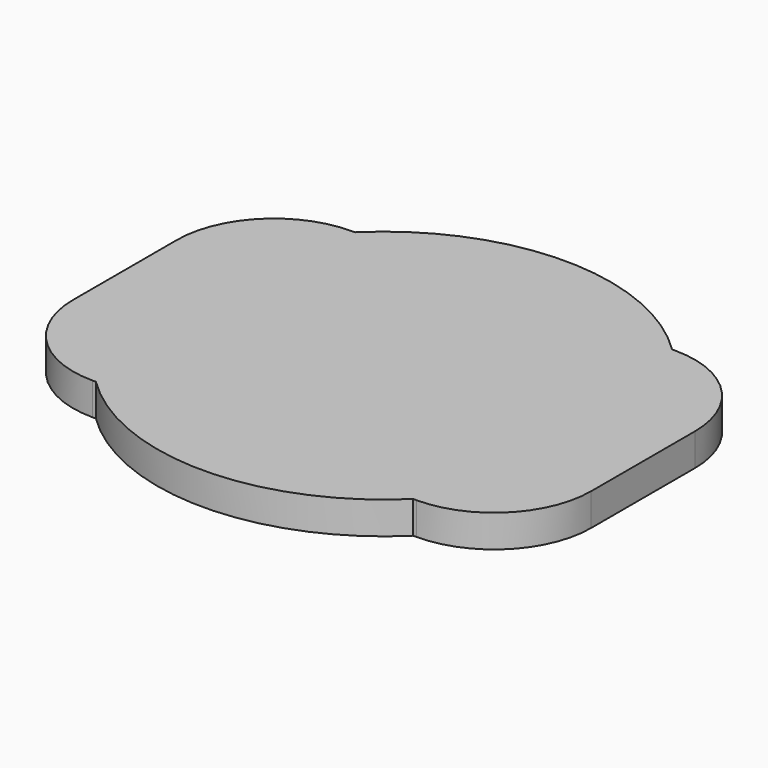
from build123d import *

# Parameters (mm, degrees)
F1_DEPTH = 0.5
F2_R     = 1.5


with BuildPart() as f1:
    # F0 (on Top) → F1 (new body)
    with BuildSketch(Plane.XY):
        with BuildLine():
            Line((-2.4494897428, 2.5), (2.4494897428, 2.5))
            ThreePointArc((2.4494897428, 2.5), (0, 3.5), (-2.4494897428, 2.5))
        make_face()
        with BuildLine():
            ThreePointArc((2.4494897428, -2.5), (3.2267021942, -1.3558735008), (3.5, 0))
            ThreePointArc((3.5, 0), (3.2267021942, 1.3558735008), (2.4494897428, 2.5))
            Line((2.4494897428, 2.5), (-2.4494897428, 2.5))
            ThreePointArc((-2.4494897428, 2.5), (-3.5, 0), (-2.4494897428, -2.5))
            Line((-2.4494897428, -2.5), (2.4494897428, -2.5))
        make_face()
        with BuildLine():
            ThreePointArc((2.4494897428, 2.5), (3.2267021942, 1.3558735008), (3.5, 0))
            ThreePointArc((3.5, 0), (3.2267021942, -1.3558735008), (2.4494897428, -2.5))
            Line((2.4494897428, -2.5), (4, -2.5))
            Line((4, -2.5), (4, 2.5))
            Line((4, 2.5), (2.4494897428, 2.5))
        make_face()
        with BuildLine():
            ThreePointArc((-2.4494897428, -2.5), (0, -3.5), (2.4494897428, -2.5))
            Line((2.4494897428, -2.5), (-2.4494897428, -2.5))
        make_face()
        with BuildLine():
            ThreePointArc((-2.4494897428, -2.5), (-3.5, 0), (-2.4494897428, 2.5))
            Line((-2.4494897428, 2.5), (-4, 2.5))
            Line((-4, 2.5), (-4, -2.5))
            Line((-4, -2.5), (-2.4494897428, -2.5))
        make_face()
    extrude(amount=F1_DEPTH)

    # F2
    f2_edges = [f1.edges().sort_by_distance(p)[0] for p in [
        (-4, -2.5, 0.25),
        (-4, 2.5, 0.25),
        (4, -2.5, 0.25),
        (4, 2.5, 0.25),
    ]]
    fillet(f2_edges, radius=F2_R)


solid = f1.part
